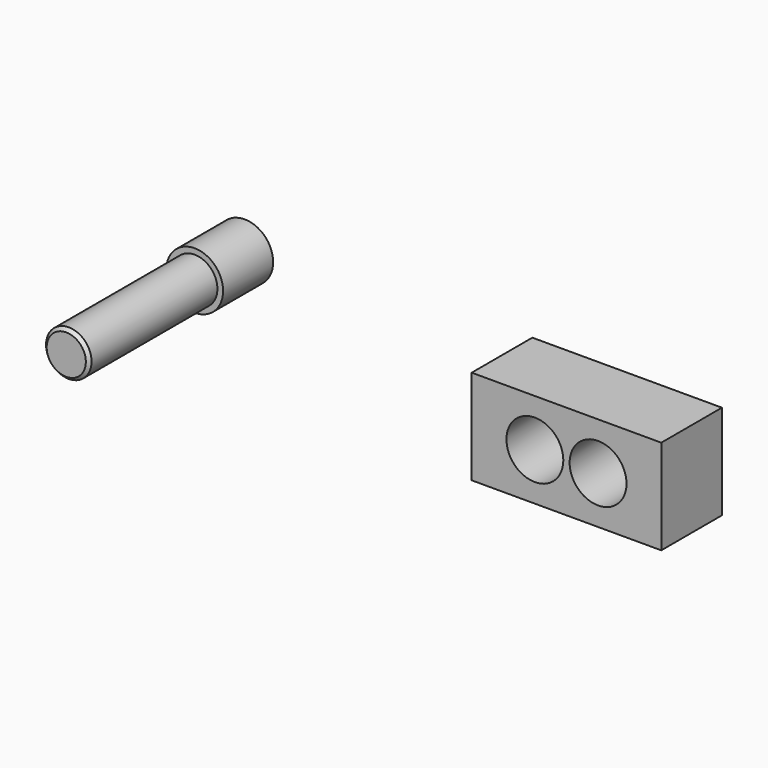
from build123d import *

# Parameters (mm, degrees)
F0_R     = 0.9144
F1_DEPTH = 8.9662
F0_R_2   = 1.143
F2_DEPTH = 2.5146
F3_SIZE  = 0.127
F4_W     = 3.81
F4_H     = 0.635
F4_H_2   = 2.54
F4_R     = 1.143
F4_R_2   = 0.9144
F5_DEPTH = 3.048
F6_DEPTH = 2.5146
F7_DEPTH = 3.048


with BuildPart() as f1:
    # F0 (on Front) → F1 (new body)
    with BuildSketch(Plane.XZ):
        with Locations((-24.36091, 19.511819)):
            Circle(F0_R)
    extrude(amount=F1_DEPTH)

    # F0 (on Front) → F2 (join)
    with BuildSketch(Plane.XZ):
        with Locations((-24.36091, 19.511819)):
            Circle(F0_R_2)
        with Locations((-24.36091, 19.511819)):
            Circle(F0_R, mode=Mode.SUBTRACT)
    extrude(amount=F2_DEPTH)

    # F3
    f3_edges = [f1.edges().sort_by_distance(p)[0] for p in [
        (-25.27531, -8.9662, 19.511819),
    ]]
    chamfer(f3_edges, length=F3_SIZE)


with BuildPart() as f5:
    # F4 (on Front) → F5 (new body)
    with BuildSketch(Plane.XZ):
        with Locations((-13.331763, 17.877566)):
            Rectangle(F4_W, F4_H)
        with Locations((-9.521763, 17.877566)):
            Rectangle(F4_W, F4_H)
        with Locations((-9.521763, 16.290066)):
            Rectangle(F4_W, F4_H_2)
        with Locations((-10.156763, 16.290066)):
            Circle(F4_R, mode=Mode.SUBTRACT)
        with Locations((-13.331763, 16.290066)):
            Rectangle(F4_W, F4_H_2)
        with Locations((-12.696763, 16.290066)):
            Circle(F4_R, mode=Mode.SUBTRACT)
        with Locations((-12.696763, 16.290066)):
            Circle(F4_R)
        with Locations((-12.696763, 16.290066)):
            Circle(F4_R_2, mode=Mode.SUBTRACT)
        with Locations((-12.696763, 16.290066)):
            Circle(F4_R_2)
        with Locations((-10.156763, 16.290066)):
            Circle(F4_R_2)
        with Locations((-10.156763, 16.290066)):
            Circle(F4_R)
        with Locations((-10.156763, 16.290066)):
            Circle(F4_R_2, mode=Mode.SUBTRACT)
        with Locations((-13.331763, 14.702566)):
            Rectangle(F4_W, F4_H)
        with Locations((-9.521763, 14.702566)):
            Rectangle(F4_W, F4_H)
    extrude(amount=-F5_DEPTH)

    # F4 (on Front) → F6 (cut)
    with BuildSketch(Plane.XZ):
        with Locations((-12.696763, 16.290066)):
            Circle(F4_R)
        with Locations((-12.696763, 16.290066)):
            Circle(F4_R_2, mode=Mode.SUBTRACT)
        with Locations((-10.156763, 16.290066)):
            Circle(F4_R)
        with Locations((-10.156763, 16.290066)):
            Circle(F4_R_2, mode=Mode.SUBTRACT)
    extrude(amount=-F6_DEPTH, mode=Mode.SUBTRACT)

    # F4 (on Front) → F7 (cut)
    with BuildSketch(Plane.XZ):
        with Locations((-12.696763, 16.290066)):
            Circle(F4_R_2)
        with Locations((-10.156763, 16.290066)):
            Circle(F4_R_2)
    extrude(amount=-F7_DEPTH, mode=Mode.SUBTRACT)


solid = Compound([f1.part, f5.part])
